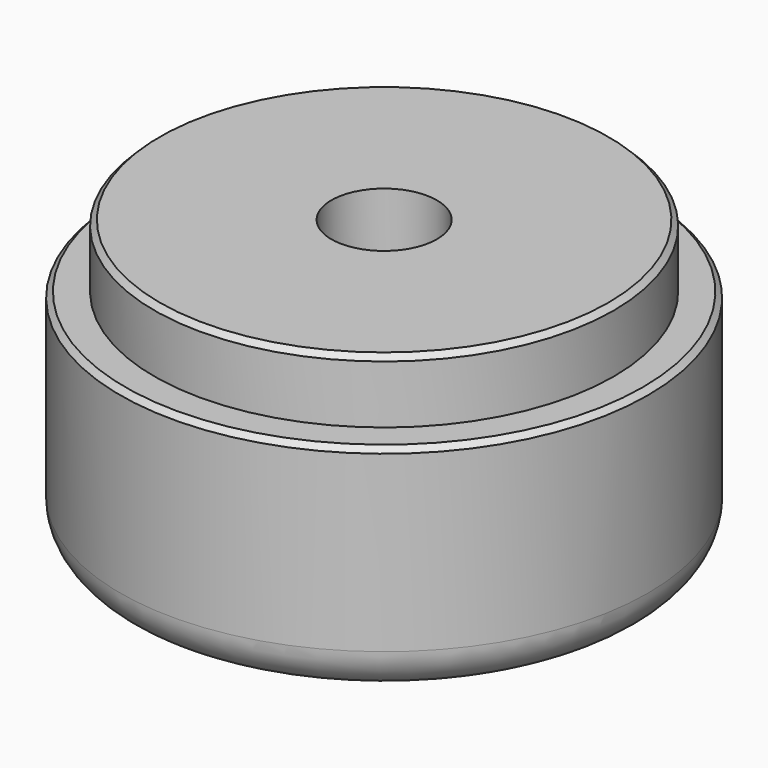
from build123d import *

# Parameters (mm, degrees)
F0_R     = 25
F1_DEPTH = 21
F2_R     = 21.75
F3_DEPTH = 6
F4_R     = 5
F5_DEPTH = 10
F6_SIZE  = 0.5
F7_R     = 4


with BuildPart() as f1:
    # F0 (on Top) → F1 (new body)
    with BuildSketch(Plane.XY):
        Circle(F0_R)
    extrude(amount=F1_DEPTH)

    # F2 (on face) → F3 (join)
    with BuildSketch(Plane.XY.offset(21)):
        Circle(F2_R)
    extrude(amount=F3_DEPTH)

    # F4 (on face) → F5 (cut)
    with BuildSketch(Plane.XY.offset(27)):
        Circle(F4_R)
    extrude(amount=-F5_DEPTH, mode=Mode.SUBTRACT)

    # F6
    f6_edges = [f1.edges().sort_by_distance(p)[0] for p in [
        (-21.75, 0, 27),
        (-25, 0, 21),
    ]]
    chamfer(f6_edges, length=F6_SIZE)

    # F7
    f7_edges = [f1.edges().sort_by_distance(p)[0] for p in [
        (-25, 0, 0),
    ]]
    fillet(f7_edges, radius=F7_R)


solid = f1.part
